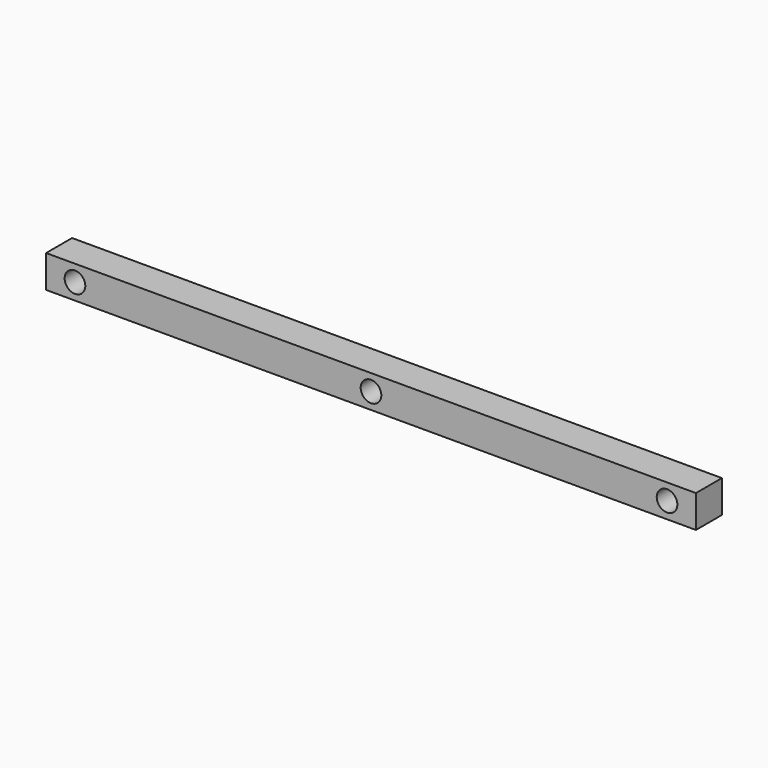
from build123d import *

# Parameters (mm, degrees)
F0_W     = 200
F0_H     = 10
F1_DEPTH = 10
F3_D     = 6.35
F5_D     = 6.35
F7_D     = 6.35


with BuildPart() as f1:
    # F0 (on Front) → F1 (new body)
    with BuildSketch(Plane.XZ):
        with Locations((-50.903185, -11.052803)):
            Rectangle(F0_W, F0_H)
    extrude(amount=F1_DEPTH)

    # F3 (through all)
    with Locations(Plane.XZ.offset(10)):
        with Locations((-142.013185, -11.052803)):
            Hole(F3_D / 2)

    # F5 (through all)
    with Locations(Plane.XZ.offset(10)):
        with Locations((40.206815, -11.052803)):
            Hole(F5_D / 2)

    # F7 (through all)
    with Locations(Plane.XZ.offset(10)):
        with Locations((-50.903185, -11.052803)):
            Hole(F7_D / 2)


solid = f1.part
